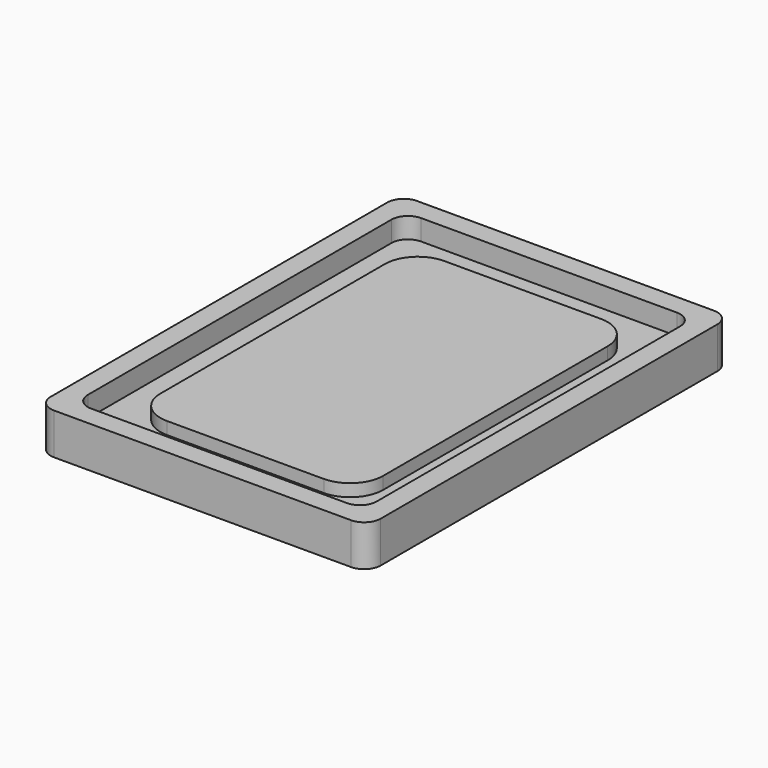
from build123d import *

# Parameters (mm, degrees)
F0_W     = 50.8
F0_H     = 69.85
F1_DEPTH = 3.175
F2_R     = 2.54
F3_W     = 44.45
F3_H     = 63.5
F4_DEPTH = 3.175
F5_R     = 2.54
F7_DEPTH = 1.905


with BuildPart() as f1:
    # F0 (on Top) → F1 (new body, symmetric)
    with BuildSketch(Plane.XY):
        Rectangle(F0_W, F0_H)
    extrude(amount=F1_DEPTH, both=True)

    # F2
    f2_edges = [f1.edges().sort_by_distance(p)[0] for p in [
        (25.4, -34.925, 0),
        (-25.4, -34.925, 0),
        (25.4, 34.925, 0),
        (-25.4, 34.925, 0),
    ]]
    fillet(f2_edges, radius=F2_R)

    # F3 (on face) → F4 (cut)
    with BuildSketch(Plane.XY.offset(3.175)):
        Rectangle(F3_W, F3_H)
    extrude(amount=-F4_DEPTH, mode=Mode.SUBTRACT)

    # F5
    f5_edges = [f1.edges().sort_by_distance(p)[0] for p in [
        (-22.225, 31.75, 1.5875),
        (22.225, 31.75, 1.5875),
        (-22.225, -31.75, 1.5875),
        (22.225, -31.75, 1.5875),
    ]]
    fillet(f5_edges, radius=F5_R)

    # F6 (on face) → F7 (join)
    with BuildSketch(Plane.XY):
        with BuildLine():
            ThreePointArc((-17.145, -21.59), (-15.657102, -25.182102), (-12.065, -26.67))
            Line((-12.065, -26.67), (12.065, -26.67))
            ThreePointArc((12.065, -26.67), (15.657102, -25.182102), (17.145, -21.59))
            Line((17.145, -21.59), (17.145, 21.59))
            ThreePointArc((17.145, 21.59), (15.657102, 25.182102), (12.065, 26.67))
            Line((12.065, 26.67), (-12.065, 26.67))
            ThreePointArc((-12.065, 26.67), (-15.657102, 25.182102), (-17.145, 21.59))
            Line((-17.145, 21.59), (-17.145, -21.59))
        make_face()
    extrude(amount=F7_DEPTH)


solid = f1.part
